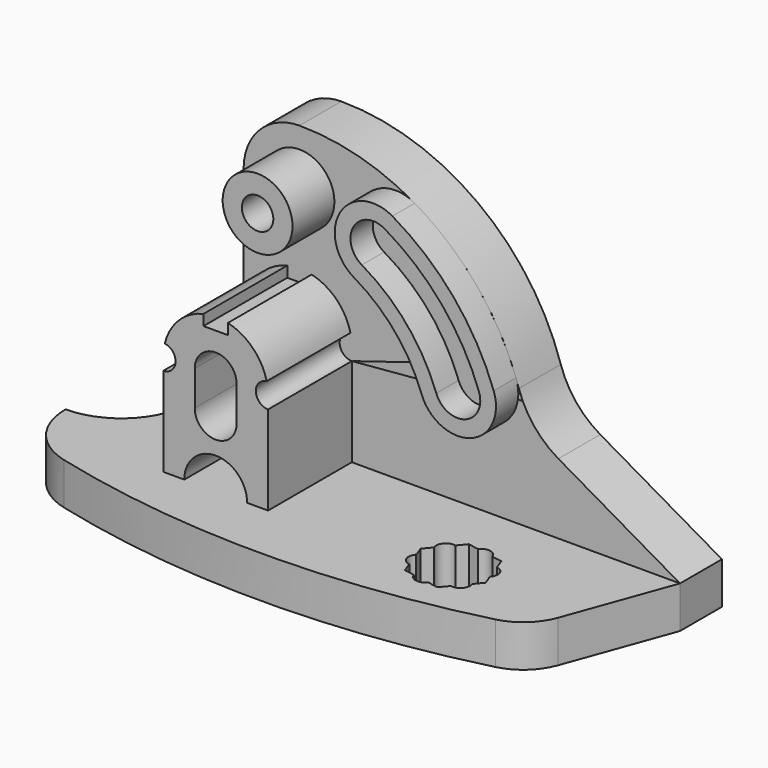
from build123d import *

# Parameters (mm, degrees)
F1_DEPTH  = 12
F3_DEPTH  = 15
F5_DEPTH  = 30
F7_DEPTH  = 8
F9_DEPTH  = 8
F10_R     = 10
F11_DEPTH = 15
F13_D     = 9
F15_DEPTH = 12.001


with BuildPart() as f1:
    # F0 (on Top) → F1 (new body)
    with BuildSketch(Plane.XY):
        with BuildLine():
            Line((109, 15), (-31, 15))
            Line((-31, 15), (-31, 0))
            ThreePointArc((-31, 0), (-36.857864, -14.142136), (-51, -20))
            ThreePointArc((-51, -20), (-46.795527, -32.267898), (-35.949868, -39.377791))
            ThreePointArc((-35.949868, -39.377791), (25.869174, -47.155392), (87.69159, -39.404653))
            ThreePointArc((87.69159, -39.404653), (94.052033, -35.990174), (98.080893, -30))
            Line((98.080893, -30), (109, 0))
            Line((109, 0), (109, 15))
        make_face()
    extrude(amount=-F1_DEPTH)

    # F2 (on Front) → F3 (join)
    with BuildSketch(Plane.XZ):
        with BuildLine():
            Line((-31, 0), (109, 0))
            Line((109, 0), (74.160852, 20.114391))
            ThreePointArc((74.160852, 20.114391), (67.199951, 26.071928), (62.852926, 34.137272))
            ThreePointArc((62.852926, 34.137272), (38.903342, 67.315382), (0, 80))
            ThreePointArc((0, 80), (-11.313708, 75.313708), (-16, 64))
            Line((-16, 64), (-16, 32.679492))
            ThreePointArc((-16, 32.679492), (-16.851854, 26.209016), (-19.349365, 20.179492))
            Line((-19.349365, 20.179492), (-31, 0))
        make_face()
    extrude(amount=-F3_DEPTH)

    # F4 (on face) → F5 (join)
    with BuildSketch(Plane.XZ):
        with BuildLine():
            Line((15, 0), (15, 25.5))
            ThreePointArc((15, 25.5), (11.50598, 28.795484), (14.591667, 32.476099))
            ThreePointArc((14.591667, 32.476099), (10.615287, 39.59791), (3.5, 43.585952))
            Line((3.5, 43.585952), (3.5, 40.5))
            Line((3.5, 40.5), (-3.5, 40.5))
            Line((-3.5, 40.5), (-3.5, 43.585952))
            ThreePointArc((-3.5, 43.585952), (-10.615287, 39.59791), (-14.591667, 32.476099))
            ThreePointArc((-14.591667, 32.476099), (-11.50598, 28.795484), (-15, 25.5))
            Line((-15, 25.5), (-15, 0))
            Line((-15, 0), (-9, 0))
            ThreePointArc((-9, 0), (0, 9), (9, 0))
            Line((9, 0), (15, 0))
        make_face()
        with BuildLine():
            ThreePointArc((-6, 29), (0, 35), (6, 29))
            Line((6, 29), (6, 19))
            ThreePointArc((6, 19), (0, 13), (-6, 19))
            Line((-6, 19), (-6, 29))
        make_face(mode=Mode.SUBTRACT)
    extrude(amount=F5_DEPTH)

    # F6 (on face) → F7 (join)
    with BuildSketch(Plane.XZ):
        with BuildLine():
            ThreePointArc((22, 52.105118), (33.705955, 42.282655), (41.346475, 29.048886))
            ThreePointArc((41.346475, 29.048886), (55.445316, 22.474489), (62.019713, 36.573329))
            ThreePointArc((62.019713, 36.573329), (50.558933, 56.423982), (33, 71.157677))
            ThreePointArc((33, 71.157677), (17.973721, 67.131397), (22, 52.105118))
        make_face()
    extrude(amount=F7_DEPTH)

    # F8 (on face) → F9 (cut)
    with BuildSketch(Plane.XZ.offset(8)):
        with BuildLine():
            ThreePointArc((57.791096, 35.034239), (47.111733, 53.531438), (30.75, 67.260562))
            ThreePointArc((30.75, 67.260562), (21.870835, 64.881397), (24.25, 56.002232))
            ThreePointArc((24.25, 56.002232), (37.153155, 45.175199), (45.575092, 30.587977))
            ThreePointArc((45.575092, 30.587977), (53.906225, 26.703106), (57.791096, 35.034239))
        make_face()
    extrude(amount=-F9_DEPTH, mode=Mode.SUBTRACT)

    # F10 (on face) → F11 (join)
    with BuildSketch(Plane.XZ):
        with Locations((0, 64)):
            Circle(F10_R)
    extrude(amount=F11_DEPTH)

    # F13 (through all)
    with Locations(Plane.XZ.offset(15)):
        with Locations((0, 64)):
            Hole(F13_D / 2)

    # F14 (on face) → F15 (cut, through all)
    with BuildSketch(Plane.XY):
        with BuildLine():
            Line((63.255327, -15.195456), (60.237778, -14.663381))
            Line((60.237778, -14.663381), (58.268213, -17.010618))
            ThreePointArc((58.268213, -17.010618), (55.573511, -17.929336), (55.13668, -20.742634))
            Line((55.13668, -20.742634), (53.167115, -23.08987))
            Line((53.167115, -23.08987), (54.215098, -25.969182))
            ThreePointArc((54.215098, -25.969182), (53.663381, -28.762222), (55.881353, -30.547177))
            Line((55.881353, -30.547177), (56.929336, -33.426489))
            Line((56.929336, -33.426489), (59.946885, -33.958564))
            ThreePointArc((59.946885, -33.958564), (62.08987, -35.832885), (64.744673, -34.804544))
            Line((64.744673, -34.804544), (67.762222, -35.336619))
            Line((67.762222, -35.336619), (69.731787, -32.989382))
            ThreePointArc((69.731787, -32.989382), (72.426489, -32.070664), (72.86332, -29.257366))
            Line((72.86332, -29.257366), (74.832885, -26.91013))
            Line((74.832885, -26.91013), (73.784902, -24.030818))
            ThreePointArc((73.784902, -24.030818), (74.336619, -21.237778), (72.118647, -19.452823))
            Line((72.118647, -19.452823), (71.070664, -16.573511))
            Line((71.070664, -16.573511), (68.053115, -16.041436))
            ThreePointArc((68.053115, -16.041436), (65.91013, -14.167115), (63.255327, -15.195456))
        make_face()
    extrude(amount=-F15_DEPTH, mode=Mode.SUBTRACT)


solid = f1.part
